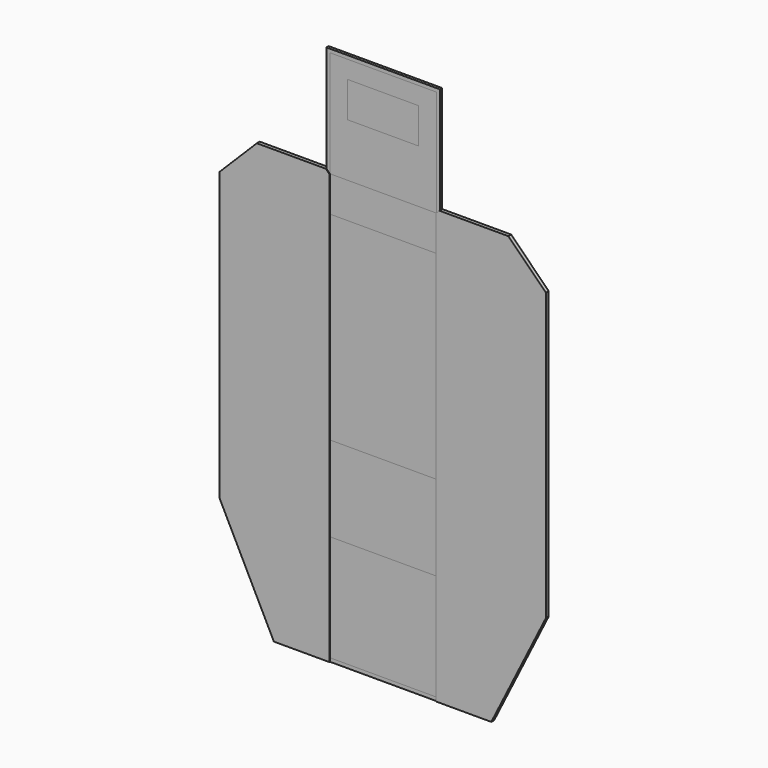
from build123d import *

# Parameters (mm, degrees)
F1_DEPTH  = 3
F2_W      = 150
F2_H      = 150
F3_DEPTH  = 3
F4_W      = 150
F4_H      = 280
F5_DEPTH  = 3
F6_W      = 150
F6_H      = 280
F7_DEPTH  = 3
F9_DEPTH  = 3
F11_DEPTH = 3
F13_DEPTH = 1
F15_DEPTH = 1
F17_DEPTH = 1


with BuildPart() as f1:
    # F0 (on Front) → F1 (new body)
    with BuildSketch(Plane.XZ):
        Polygon((50, 125), (0, 125), (-50, 125), (-50, 100), (-50, 75), (0, 75), (50, 75), (50, 100), align=None)
    extrude(amount=-F1_DEPTH)


with BuildPart() as f3:
    # F2 (on Front) → F3 (new body)
    with BuildSketch(Plane.XZ):
        with Locations((0, 75)):
            Rectangle(F2_W, F2_H)
        Polygon((-50, 125), (0, 125), (50, 125), (50, 100), (50, 75), (0, 75), (-50, 75), (-50, 100), align=None, mode=Mode.SUBTRACT)
    extrude(amount=-F3_DEPTH)


with BuildPart() as f5:
    # F4 (on Front) → F5 (new body)
    with BuildSketch(Plane.XZ):
        with Locations((0, -190)):
            Rectangle(F4_W, F4_H)
    extrude(amount=-F5_DEPTH)


with BuildPart() as f7:
    # F6 (on Front) → F7 (new body)
    with BuildSketch(Plane.XZ):
        Polygon((75, 0), (-75, 0), (-150, -50), (-150, -330), (-100, -450), (100, -450), (150, -330), (150, -50), align=None)
        with Locations((0, -190)):
            Rectangle(F6_W, F6_H, mode=Mode.SUBTRACT)
    extrude(amount=-F7_DEPTH)


with BuildPart() as f9:
    # F8 (on face) → F9 (new body)
    with BuildSketch(Plane.XZ):
        Polygon((175, 0), (75, 0), (150, -50), (150, -330), (100, -450), (-100, -450), (-150, -330), (-150, -50), (-75, 0), (-175, 0), (-225, -50), (-225, -450), (-150, -600), (150, -600), (225, -450), (225, -50), align=None)
    extrude(amount=-F9_DEPTH)


with BuildPart() as f11:
    # F10 (on face) → F11 (new body)
    with BuildSketch(Plane.XZ):
        Polygon((230, -47.928932), (177.071068, 5), (80, 5), (80, 155), (-80, 155), (-80, 5), (-177.071068, 5), (-230, -47.928932), (-230, -451.18034), (-153.09017, -605), (153.09017, -605), (230, -451.18034), align=None)
        Polygon((-75, 150), (75, 150), (75, 0), (175, 0), (225, -50), (225, -450), (150, -600), (-150, -600), (-225, -450), (-225, -50), (-175, 0), (-75, 0), align=None, mode=Mode.SUBTRACT)
    extrude(amount=-F11_DEPTH)


with BuildPart() as f13:
    # F12 (on face) → F13 (new body)
    with BuildSketch(Plane(origin=(0, 3, 0), x_dir=(-1, 0, 0), z_dir=(0, 1, 0))):
        Polygon((75, 0), (75, 150), (-75, 150), (-75, 0), (-175, 0), (-225, -50), (-225, -450), (-150, -600), (150, -600), (225, -450), (225, -50), (175, 0), align=None)
    extrude(amount=F13_DEPTH)


with BuildPart() as f15:
    # F14 (on face) → F15 (new body)
    with BuildSketch(Plane(origin=(0, 4, 0), x_dir=(-1, 0, 0), z_dir=(0, 1, 0))):
        Polygon((80, 155), (-80, 155), (-80, 5), (-177.071068, 5), (-230, -47.928932), (-230, -451.18034), (-153.09017, -605), (153.09017, -605), (230, -451.18034), (230, -47.928932), (177.071068, 5), (80, 5), align=None)
        Polygon((-75, 0), (-75, 150), (75, 150), (75, 0), (175, 0), (225, -50), (225, -450), (150, -600), (-150, -600), (-225, -450), (-225, -50), (-175, 0), align=None, mode=Mode.SUBTRACT)
    extrude(amount=-F15_DEPTH)


with BuildPart() as f17:
    # F16 (on face) → F17 (new body)
    with BuildSketch(Plane.XZ):
        Polygon((-153.09017, -605), (-75, -605), (-75, 0), (-80, 5), (-177.071068, 5), (-230, -47.928932), (-230, -451.18034), align=None)
    extrude(amount=F17_DEPTH)


with BuildPart() as f18_1:
    # F18: instance of F17
    add(f17.part.mirror(Plane.YZ))


solid = Compound([f1.part, f3.part, f5.part, f7.part, f9.part, f11.part, f13.part, f15.part, f17.part, f18_1.part])
